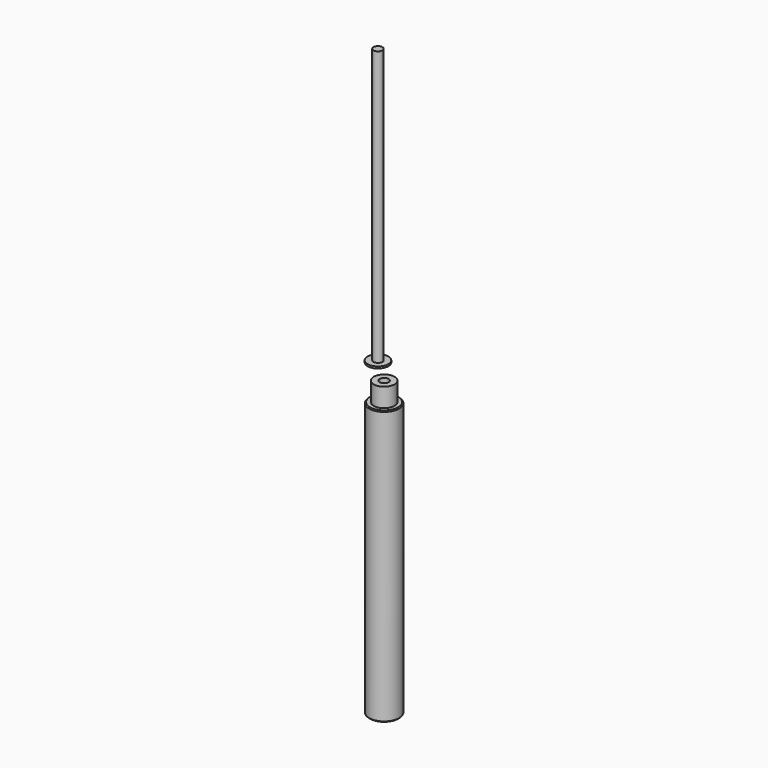
from build123d import *

# Parameters (mm, degrees)
F0_R        = 7.95
F1_DEPTH    = 145
F2_R        = 5.5
F3_DEPTH    = 10
F4_SIZE     = 0.5
F5_R        = 2.375
F6_DEPTH    = 150
F7_START    = -24
F3_FACE_R   = 5.5
F3_FACE_R_2 = 2.375
F7_DEPTH    = 100
F8_R        = 5.5
F9_DEPTH    = 1
F10_R       = 2.375
F11_DEPTH   = 145


with BuildPart() as f1:
    # F0 (on Top) → F1 (new body)
    with BuildSketch(Plane.XY):
        Circle(F0_R)
    extrude(amount=-F1_DEPTH)

    # F2 (on face) → F3 (join)
    with BuildSketch(Plane.XY):
        Circle(F2_R)
    extrude(amount=F3_DEPTH)

    # F4
    f4_edges = [f1.edges().sort_by_distance(p)[0] for p in [
        (-7.95, 0, 0),
        (-7.95, 0, -145),
    ]]
    chamfer(f4_edges, length=F4_SIZE)

    # F5 (on face) → F6 (cut)
    with BuildSketch(Plane.XY.offset(10)):
        Circle(F5_R)
    extrude(amount=-F6_DEPTH, mode=Mode.SUBTRACT)

    # F3_face (on face) → F7 (cut)
    with BuildSketch(Plane.XY.offset(10).offset(F7_START)):
        Circle(F3_FACE_R)
        Circle(F3_FACE_R_2, mode=Mode.SUBTRACT)
    extrude(amount=-F7_DEPTH, mode=Mode.SUBTRACT)


with BuildPart() as f9:
    # F8 (on Top) → F9 (new body)
    with BuildSketch(Plane.XY):
        with Locations((-24.1071432829, 26.0714311153)):
            Circle(F8_R)
    extrude(amount=F9_DEPTH)

    # F10 (on face) → F11 (join)
    with BuildSketch(Plane.XY.offset(1)):
        with Locations((-24.1071432829, 26.0714311153)):
            Circle(F10_R)
    extrude(amount=F11_DEPTH)


solid = Compound([f1.part, f9.part])
